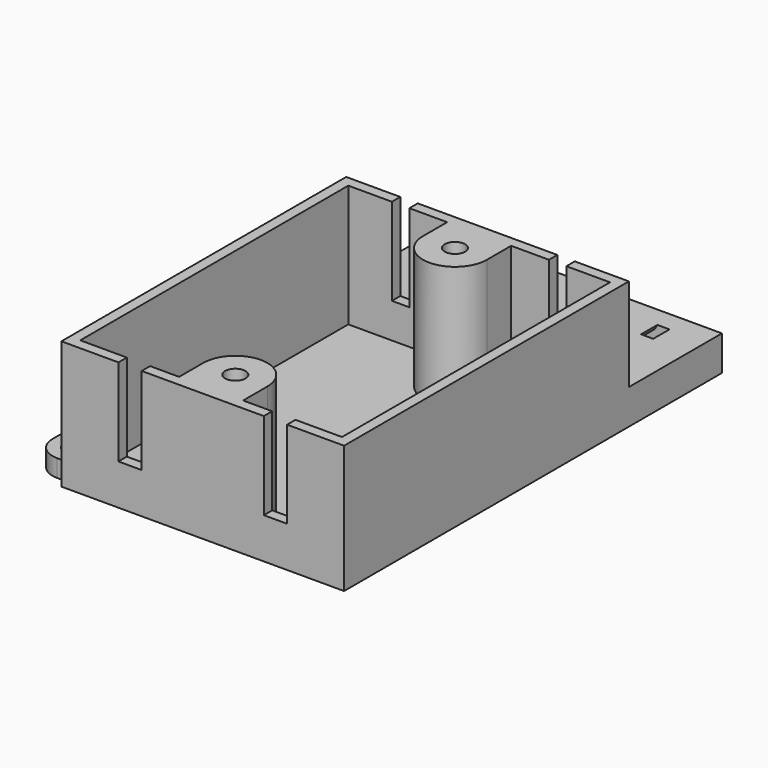
from build123d import *

# Parameters (mm, degrees)
F0_W      = 48.6
F0_H      = 61.2
F1_DEPTH  = 22
F0_R      = 1.75
F2_DEPTH  = 22
F3_DEPTH  = 1
F0_H_2    = 20
F0_R_2    = 2.05
F4_DEPTH  = 6
F5_W      = 3
F5_H      = 1.8
F5_W_2    = 4
F6_DEPTH  = 15
F8_DEPTH  = 7
F9_DEPTH  = 3.5
F11_DEPTH = 5.2
F12_DEPTH = 5
F14_DEPTH = 3


with BuildPart() as f1:
    # F0 (on Top) → F1 (new body)
    with BuildSketch(Plane.XY):
        Rectangle(F0_W, F0_H)
        Polygon((22.5, 28.8), (22.5, -28.8), (5.5, -28.8), (-5.5, -28.8), (-22.5, -28.8), (-22.5, 28.8), (-5.5, 28.8), (5.5, 28.8), align=None, mode=Mode.SUBTRACT)
    extrude(amount=F1_DEPTH)

    # F0 (on Top) → F2 (join)
    with BuildSketch(Plane.XY):
        with BuildLine():
            Line((-5.5, -28.8), (5.5, -28.8))
            Line((5.5, -28.8), (5.5, -23.6))
            ThreePointArc((5.5, -23.6), (0, -18.1), (-5.5, -23.6))
            Line((-5.5, -23.6), (-5.5, -28.8))
        make_face()
        with Locations((0, -23.6)):
            Circle(F0_R, mode=Mode.SUBTRACT)
        with BuildLine():
            Line((5.5, 23.6), (5.5, 28.8))
            Line((5.5, 28.8), (-5.5, 28.8))
            Line((-5.5, 28.8), (-5.5, 23.6))
            ThreePointArc((-5.5, 23.6), (0, 18.1), (5.5, 23.6))
        make_face()
        with Locations((0, 23.6)):
            Circle(F0_R, mode=Mode.SUBTRACT)
    extrude(amount=F2_DEPTH)

    # F0 (on Top) → F3 (join)
    with BuildSketch(Plane.XY):
        with BuildLine():
            Line((5.5, -28.8), (22.5, -28.8))
            Line((22.5, -28.8), (22.5, 28.8))
            Line((22.5, 28.8), (5.5, 28.8))
            Line((5.5, 28.8), (5.5, 23.6))
            ThreePointArc((5.5, 23.6), (0, 18.1), (-5.5, 23.6))
            Line((-5.5, 23.6), (-5.5, 28.8))
            Line((-5.5, 28.8), (-22.5, 28.8))
            Line((-22.5, 28.8), (-22.5, -28.8))
            Line((-22.5, -28.8), (-5.5, -28.8))
            Line((-5.5, -28.8), (-5.5, -23.6))
            ThreePointArc((-5.5, -23.6), (0, -18.1), (5.5, -23.6))
            Line((5.5, -23.6), (5.5, -28.8))
        make_face()
    extrude(amount=F3_DEPTH)

    # F0 (on Top) → F4 (join)
    with BuildSketch(Plane.XY):
        with Locations((0, 40.6)):
            Rectangle(F0_W, F0_H_2)
        with Locations((-12.5, 35.6)):
            Circle(F0_R_2, mode=Mode.SUBTRACT)
        with Locations((12.5, 35.6)):
            Circle(F0_R_2, mode=Mode.SUBTRACT)
    extrude(amount=F4_DEPTH)

    # F5 (on face) → F6 (cut)
    with BuildSketch(Plane.XY.offset(22)):
        with Locations((-13.5, 29.7)):
            Rectangle(F5_W, F5_H)
        with Locations((13.5, 29.7)):
            Rectangle(F5_W, F5_H)
        with Locations((-12.5, -29.7)):
            Rectangle(F5_W_2, F5_H)
        with Locations((12.5, -29.7)):
            Rectangle(F5_W_2, F5_H)
    extrude(amount=-F6_DEPTH, mode=Mode.SUBTRACT)

    # F7 (on face) → F8 (cut)
    with BuildSketch(Plane(origin=(0, 50.6, 0), x_dir=(-1, 0, 0), z_dir=(0, 1, 0))):
        with BuildLine():
            Line((11, 6), (8.9152066989, 6))
            ThreePointArc((8.9152066989, 6), (13.5, 2.3074175964), (18.0847933011, 6))
            Line((18.0847933011, 6), (16, 6))
            ThreePointArc((16, 6), (13.5, 4.3074175964), (11, 6))
        make_face()
        with BuildLine():
            Line((-16, 6), (-18.0847933011, 6))
            ThreePointArc((-18.0847933011, 6), (-13.5, 2.3074175964), (-8.9152066989, 6))
            Line((-8.9152066989, 6), (-11, 6))
            ThreePointArc((-11, 6), (-13.5, 4.3074175964), (-16, 6))
        make_face()
    extrude(amount=-F8_DEPTH, mode=Mode.SUBTRACT)

    # F7 (on face) → F9 (join)
    with BuildSketch(Plane(origin=(0, 50.6, 0), x_dir=(-1, 0, 0), z_dir=(0, 1, 0))):
        with BuildLine():
            Line((11, 6), (8.9152066989, 6))
            ThreePointArc((8.9152066989, 6), (13.5, 2.3074175964), (18.0847933011, 6))
            Line((18.0847933011, 6), (16, 6))
            ThreePointArc((16, 6), (13.5, 4.3074175964), (11, 6))
        make_face()
        with BuildLine():
            Line((-16, 6), (-18.0847933011, 6))
            ThreePointArc((-18.0847933011, 6), (-13.5, 2.3074175964), (-8.9152066989, 6))
            Line((-8.9152066989, 6), (-11, 6))
            ThreePointArc((-11, 6), (-13.5, 4.3074175964), (-16, 6))
        make_face()
    extrude(amount=-F9_DEPTH)

    # F0 (on Top) → F11 (join)
    with BuildSketch(Plane.XY):
        with Locations((0, 23.6)):
            Circle(F0_R)
        with Locations((0, -23.6)):
            Circle(F0_R)
    extrude(amount=F11_DEPTH)

    # F10 (on face) → F12 (cut)
    with BuildSketch(Plane.XY):
        Polygon((-2.7033752158, 21.9341381282), (0.0909910922, 20.4258774513), (2.7943663081, 22.091739323), (2.7033752158, 25.2658618718), (-0.0909910922, 26.7741225487), (-2.7943663081, 25.108260677), align=None)
        Polygon((2.7033752158, -25.2658618718), (2.7943663081, -22.091739323), (0.0909910922, -20.4258774513), (-2.7033752158, -21.9341381282), (-2.7943663081, -25.108260677), (-0.0909910922, -26.7741225487), align=None)
    extrude(amount=F12_DEPTH, mode=Mode.SUBTRACT)

    # F13 (on face) → F14 (join)
    with BuildSketch(Plane.XY):
        with BuildLine():
            Line((-26.3, -29), (-24.3, -29))
            Line((-24.3, -29), (-24.3, -27))
            Line((-24.3, -27), (-26.3, -27))
            ThreePointArc((-26.3, -27), (-27.7142135624, -26.4142135624), (-28.3, -25))
            Line((-28.3, -25), (-28.3, -24))
            ThreePointArc((-28.3, -24), (-27.7142135624, -22.5857864376), (-26.3, -22))
            Line((-26.3, -22), (-24.3, -22))
            Line((-24.3, -22), (-24.3, -20))
            Line((-24.3, -20), (-26.3, -20))
            ThreePointArc((-26.3, -20), (-29.1284271247, -21.1715728753), (-30.3, -24))
            Line((-30.3, -24), (-30.3, -25))
            ThreePointArc((-30.3, -25), (-29.1284271247, -27.8284271247), (-26.3, -29))
        make_face()
        with BuildLine():
            Line((-26.3, 20), (-24.3, 20))
            Line((-24.3, 20), (-24.3, 22))
            Line((-24.3, 22), (-26.3, 22))
            ThreePointArc((-26.3, 22), (-27.7142135624, 22.5857864376), (-28.3, 24))
            Line((-28.3, 24), (-28.3, 25))
            ThreePointArc((-28.3, 25), (-27.7142135624, 26.4142135624), (-26.3, 27))
            Line((-26.3, 27), (-24.3, 27))
            Line((-24.3, 27), (-24.3, 29))
            Line((-24.3, 29), (-26.3, 29))
            ThreePointArc((-26.3, 29), (-29.1284271247, 27.8284271247), (-30.3, 25))
            Line((-30.3, 25), (-30.3, 24))
            ThreePointArc((-30.3, 24), (-29.1284271247, 21.1715728753), (-26.3, 20))
        make_face()
    extrude(amount=F14_DEPTH)


solid = f1.part
